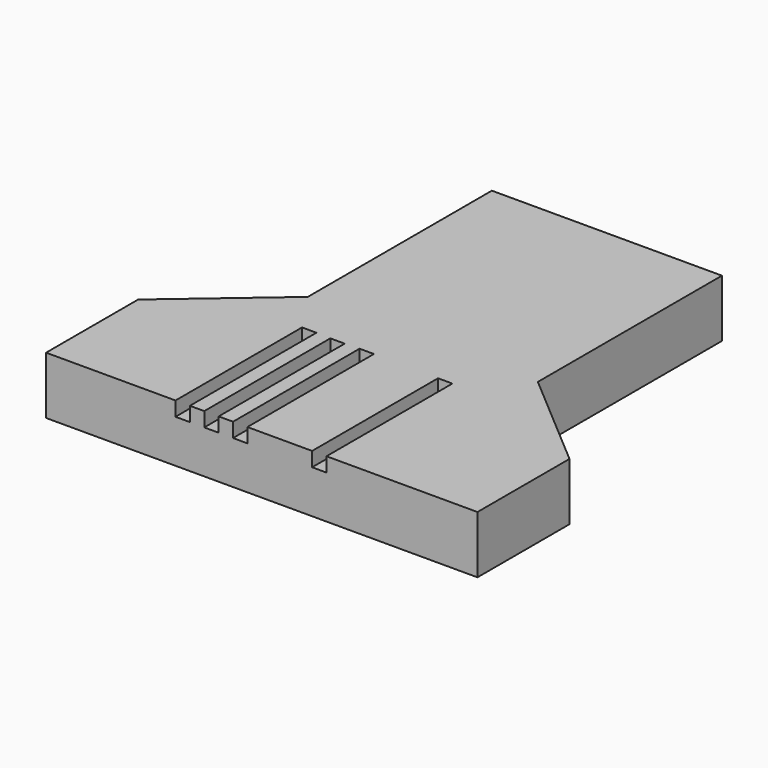
from build123d import *

# Parameters (mm, degrees)
PAD_DEPTH       = 2
SKETCH001_W     = 0.5
SKETCH001_H     = 4
PAD001_DEPTH    = 0.75
SKETCH002_W     = 0.5
SKETCH002_H     = 10
POCKET_DEPTH    = 1
SKETCH003_W     = 0.5
SKETCH003_H     = 0.5
POCKET001_DEPTH = 1
SKETCH004_W     = 0.5
SKETCH004_H     = 5
POCKET002_DEPTH = 0.5


with BuildPart() as part:
    # Sketch → Pad (new body)
    with BuildSketch(Plane.XY):
        Polygon((-4, 8), (4, 8), (4, 0), (7.5, -3), (7.5, -7), (-7.5, -7), (-7.5, -3), (-4, 0), align=None)
    extrude(amount=PAD_DEPTH)

    # Sketch001 (on Face9 of Pad) → Pad001 (join)
    with BuildSketch(Plane(origin=(0, 0, 0), x_dir=(1, 0, 0), z_dir=(0, 0, -1))):
        with Locations((0.875, -6)):
            Rectangle(SKETCH001_W, SKETCH001_H)
    extrude(amount=PAD001_DEPTH)

    # Sketch002 (on Face4 of Pad001) → Pocket (cut)
    with BuildSketch(Plane(origin=(0, 0, 0), x_dir=(1, 0, 0), z_dir=(0, 0, -1))):
        with Locations((-2.75, -3)):
            Rectangle(SKETCH002_W, SKETCH002_H)
        with Locations((-1.75, -3)):
            Rectangle(SKETCH002_W, SKETCH002_H)
        with Locations((-0.75, -3)):
            Rectangle(SKETCH002_W, SKETCH002_H)
        with Locations((2, -3)):
            Rectangle(SKETCH002_W, SKETCH002_H)
    extrude(amount=-POCKET_DEPTH, mode=Mode.SUBTRACT)

    # Sketch003 (on Sketch) → Pocket001 (cut)
    with BuildSketch(Plane.XY.offset(2)):
        with Locations((-2.75, -1.75)):
            Rectangle(SKETCH003_W, SKETCH003_H)
        with Locations((-1.75, -1.770407)):
            Rectangle(SKETCH003_W, SKETCH003_H)
        with Locations((-0.75, -1.75)):
            Rectangle(SKETCH003_W, SKETCH003_H)
        with Locations((2, -1.777476)):
            Rectangle(SKETCH003_W, SKETCH003_H)
    extrude(amount=-POCKET001_DEPTH, mode=Mode.SUBTRACT)

    # Sketch004 (on Face5 of Pocket001) → Pocket002 (cut)
    with BuildSketch(Plane.XY.offset(2)):
        with Locations((-2.75, -4.5)):
            Rectangle(SKETCH004_W, SKETCH004_H)
        with Locations((-1.75, -4.5)):
            Rectangle(SKETCH004_W, SKETCH004_H)
        with Locations((-0.75, -4.5)):
            Rectangle(SKETCH004_W, SKETCH004_H)
        with Locations((2, -4.5)):
            Rectangle(SKETCH004_W, SKETCH004_H)
    extrude(amount=-POCKET002_DEPTH, mode=Mode.SUBTRACT)


solid = part.part
